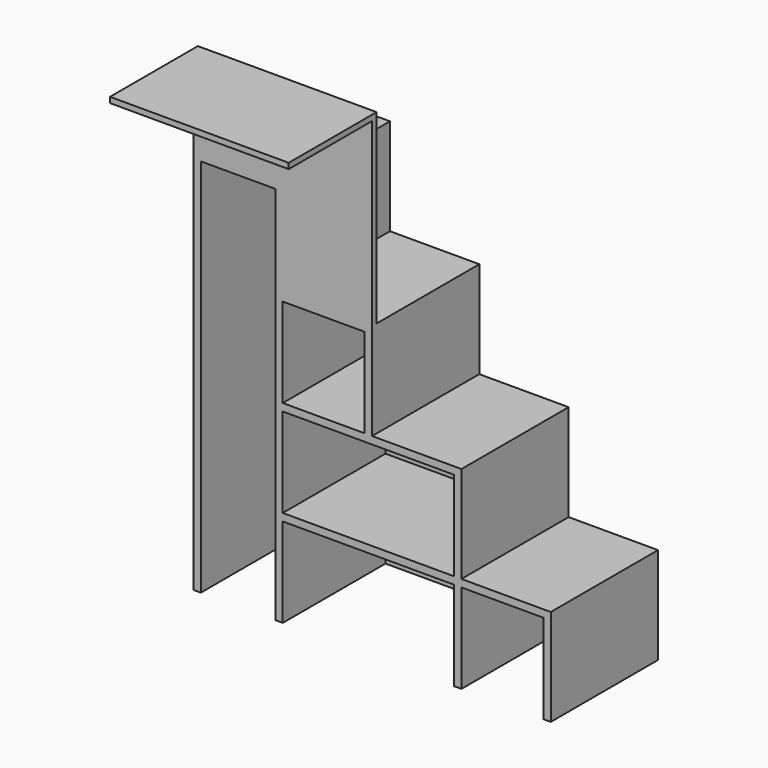
from build123d import *

# Parameters (mm, degrees)
F1_DEPTH = 19.05
F2_W     = 584.2
F2_H     = 304.8
F2_W_2   = 279.4
F3_DEPTH = 438.15
F5_DEPTH = 19.05
F6_W     = 374.65
F6_H     = 19.05
F7_DEPTH = 609.6


with BuildPart() as f1:
    # F0 (on Front) → F1 (new body)
    with BuildSketch(Plane.XZ):
        Polygon((0, 1320.8), (0, 0), (1219.2, 0), (1219.2, 330.2), (914.4, 330.2), (914.4, 660.4), (609.6, 660.4), (609.6, 990.6), (304.8, 990.6), (304.8, 1320.8), align=None)
    extrude(amount=F1_DEPTH)

    # F2 (on face) → F3 (join)
    with BuildSketch(Plane.XZ.offset(19.05)):
        Polygon((1193.8, 0), (1219.2, 0), (1219.2, 330.2), (914.4, 330.2), (914.4, 660.4), (609.6, 660.4), (609.6, 990.6), (304.8, 990.6), (304.8, 1320.8), (0, 1320.8), (0, 0), (25.4, 0), (25.4, 1295.4), (279.4, 1295.4), (279.4, 0), (304.8, 0), (304.8, 304.8), (889, 304.8), (889, 0), (914.4, 0), (914.4, 304.8), (1193.8, 304.8), align=None)
        with Locations((596.9, 482.6)):
            Rectangle(F2_W, F2_H, mode=Mode.SUBTRACT)
        with Locations((444.5, 812.8)):
            Rectangle(F2_W_2, F2_H, mode=Mode.SUBTRACT)
    extrude(amount=F3_DEPTH)

    # F4 (on face) → F5 (join)
    with BuildSketch(Plane.XZ.offset(457.2)):
        Polygon((609.6, 990.6), (609.6, 1625.6), (0, 1625.6), (0, 1320.8), (304.8, 1320.8), (304.8, 990.6), align=None)
    extrude(amount=-F5_DEPTH)

    # F6 (on face) → F7 (join, through all)
    with BuildSketch(Plane(origin=(0, 0, 0), x_dir=(0, -1, 0), z_dir=(-1, 0, 0))):
        with Locations((625.475, 1616.075)):
            Rectangle(F6_W, F6_H)
    extrude(amount=-F7_DEPTH)


solid = f1.part
